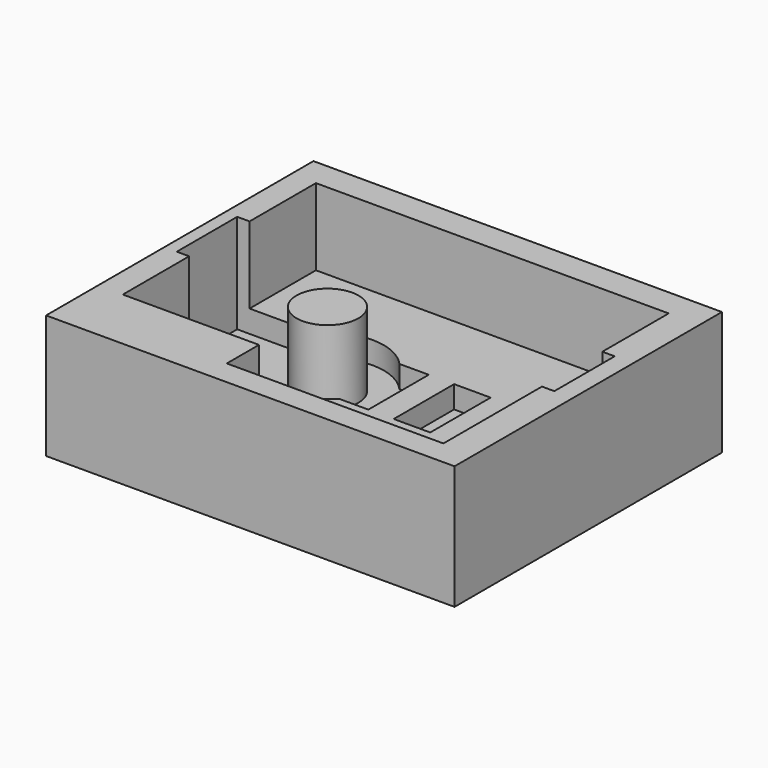
from build123d import *

# Parameters (mm, degrees)
PAD004_DEPTH             = 8.2
SKETCH014_W              = 28.5
SKETCH014_H              = 6.1
PAD005_DEPTH             = 1.8
SKETCH015_R              = 2.9
POCKET004_DEPTH          = 0.6
SKETCH016_W              = 2.05
SKETCH016_H              = 6.1
POCKET005_DEPTH          = 1.8
CLONE012_PLACEMENT_ANGLE = 180
BOX_W                    = 33
BOX_H                    = 27
BOX_DEPTH                = 10
SKETCH_W                 = 3
SKETCH_H                 = 3.25
POCKET009_DEPTH          = 6.2
SKETCH021_W              = 1
SKETCH021_H              = 6.1
POCKET010_DEPTH          = 8
SKETCH022_R              = 4.55
POCKET011_DEPTH          = 1.8
SKETCH023_R              = 2.5
PAD_DEPTH                = 6


with BuildPart() as body011:
    # Sketch013 → Pad004 (new body)
    with BuildSketch(Plane.XY):
        with BuildLine():
            Line((0, 0), (28.5, 0))
            Line((28.5, 0), (28.5, 22.75))
            Line((28.5, 22.75), (14, 22.75))
            Line((14, 22.75), (14, 22.5))
            ThreePointArc((11, 19.5), (13.12132, 20.37868), (14, 22.5))
            Line((11, 19.5), (0, 19.5))
            Line((0, 19.5), (0, 0))
        make_face()
    extrude(amount=PAD004_DEPTH)

    # Sketch014 (on Face9 of Pad004) → Pad005 (join)
    with BuildSketch(Plane.XY.offset(8.2)):
        with Locations((14.25, 9.75)):
            Rectangle(SKETCH014_W, SKETCH014_H)
    extrude(amount=PAD005_DEPTH)

    # Sketch015 (on Face11 of Pad005) → Pocket004 (cut)
    with BuildSketch(Plane.XY.offset(10)):
        with Locations((8.735056, 9.75)):
            Circle(SKETCH015_R)
    extrude(amount=-POCKET004_DEPTH, mode=Mode.SUBTRACT)

    # Sketch016 (on Face10 of Pocket004) → Pocket005 (cut)
    with BuildSketch(Plane.XY.offset(10)):
        with Locations((15.5, 9.75)):
            Rectangle(SKETCH016_W, SKETCH016_H)
        Polygon((21.525, 12.8), (21.525, 6.7), (19.475, 6.7), (19.475, 12.8), (20.5, 12.8), align=None)
        with Locations((25.5, 9.75)):
            Rectangle(SKETCH016_W, SKETCH016_H)
    extrude(amount=-POCKET005_DEPTH, mode=Mode.SUBTRACT)


with BuildPart() as body011_1:
    # Clone012 placement: moved
    add(body011.part.moved(Location((0, 22.75, 12))).rotate(Axis((0, 22.75, 12), (1, 0, 0)), CLONE012_PLACEMENT_ANGLE))


with BuildPart() as bottombed:
    # Box → Box (new body)
    with BuildSketch(Plane(origin=(-2, -2, 0), x_dir=(1, 0, 0), z_dir=(0, 0, 1))):
        with Locations((16.5, 13.5)):
            Rectangle(BOX_W, BOX_H)
    extrude(amount=BOX_DEPTH)

    # Cut: cut Body011
    add(body011_1.part, mode=Mode.SUBTRACT)

    # Sketch (on Face3 of BaseFeature001) → Pocket009 (cut)
    with BuildSketch(Plane.XY.offset(10)):
        with Locations((12.5, 1.625)):
            Rectangle(SKETCH_W, SKETCH_H)
    extrude(amount=-POCKET009_DEPTH, mode=Mode.SUBTRACT)

    # Sketch021 (on Face3 of Pocket009) → Pocket010 (cut)
    with BuildSketch(Plane.XY.offset(10)):
        with Locations((-0.5, 13)):
            Rectangle(SKETCH021_W, SKETCH021_H)
        with Locations((29, 13)):
            Rectangle(SKETCH021_W, SKETCH021_H)
    extrude(amount=-POCKET010_DEPTH, mode=Mode.SUBTRACT)

    # Sketch022 (on Face17 of Pocket010) → Pocket011 (cut)
    with BuildSketch(Plane.XY.offset(3.8)):
        with Locations((8.735056, 13)):
            Circle(SKETCH022_R)
    extrude(amount=-POCKET011_DEPTH, mode=Mode.SUBTRACT)

    # Sketch023 (on Face39 of Pocket011) → Pad (join)
    with BuildSketch(Plane.XY.offset(2)):
        with Locations((8.735056, 13)):
            Circle(SKETCH023_R)
    extrude(amount=PAD_DEPTH)


solid = bottombed.part
